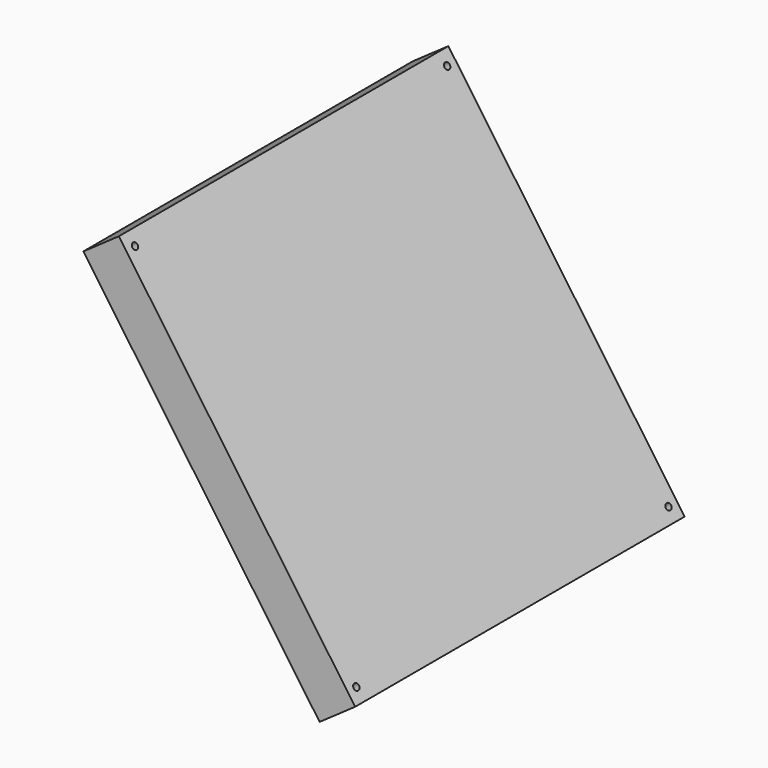
from build123d import *

# Parameters (mm, degrees)
F1_DEPTH = 380
F2_R     = 3
F3_DEPTH = 40


with BuildPart() as f1:
    # F0 (on Front) → F1 (new body)
    with BuildSketch(Plane.XZ):
        Polygon((79.4555794589, -161.3228202568), (-138.5034663545, 149.954956573), (-171.269548126, 127.011899119), (46.6894976874, -184.2658777108), align=None)
    extrude(amount=F1_DEPTH)

    # F2 (on face) → F3 (cut, through all)
    with BuildSketch(Plane(origin=(-55.2475195846, 0, -38.6847296806), x_dir=(0, -1, 0), z_dir=(-0.8191520443, 0, -0.5735764364))):
        with Locations((370, 190.2782338819)):
            Circle(F2_R)
        with Locations((370, -165.7217661181)):
            Circle(F2_R)
        with Locations((10, -165.7217661181)):
            Circle(F2_R)
        with Locations((10, 190.2782338819)):
            Circle(F2_R)
    extrude(amount=-F3_DEPTH, mode=Mode.SUBTRACT)


solid = f1.part
